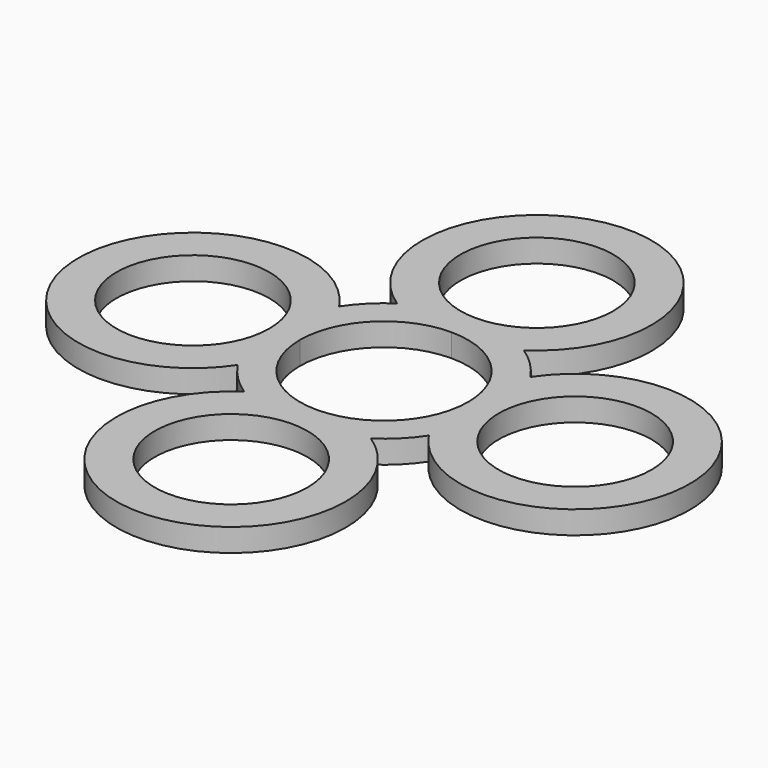
from build123d import *

# Parameters (mm, degrees)
F0_R     = 10
F1_DEPTH = 3


with BuildPart() as f1:
    # F0 (on Top) → F1 (new body)
    with BuildSketch(Plane.XY):
        with BuildLine():
            ThreePointArc((0, -11), (7.778175, -7.778175), (11, 0))
            ThreePointArc((11, 0), (7.778175, 7.778175), (0, 11))
            ThreePointArc((0, 11), (-7.778175, 7.778175), (-11, 0))
            ThreePointArc((-11, 0), (-7.778175, -7.778175), (0, -11))
        make_face()
        with BuildLine():
            ThreePointArc((10, 25), (-7.071068, 32.071068), (0, 15))
            ThreePointArc((0, 15), (7.071068, 17.928932), (10, 25))
        make_face()
        with BuildLine():
            ThreePointArc((8.291562, 12.5), (0, 40), (-8.291562, 12.5))
            ThreePointArc((-8.291562, 12.5), (-10.606602, 10.606602), (-12.5, 8.291562))
            ThreePointArc((-12.5, 8.291562), (-40, 0), (-12.5, -8.291562))
            ThreePointArc((-12.5, -8.291562), (-10.606602, -10.606602), (-8.291562, -12.5))
            ThreePointArc((-8.291562, -12.5), (0, -40), (8.291562, -12.5))
            ThreePointArc((8.291562, -12.5), (10.606602, -10.606602), (12.5, -8.291562))
            ThreePointArc((12.5, -8.291562), (40, 0), (12.5, 8.291562))
            ThreePointArc((12.5, 8.291562), (10.606602, 10.606602), (8.291562, 12.5))
        make_face()
        with Locations((0, -25)):
            Circle(F0_R, mode=Mode.SUBTRACT)
        with Locations((-25, 0)):
            Circle(F0_R, mode=Mode.SUBTRACT)
        with BuildLine():
            ThreePointArc((0, 11), (7.778175, 7.778175), (11, 0))
            ThreePointArc((11, 0), (7.778175, -7.778175), (0, -11))
            ThreePointArc((0, -11), (-7.778175, -7.778175), (-11, 0))
            ThreePointArc((-11, 0), (-7.778175, 7.778175), (0, 11))
        make_face(mode=Mode.SUBTRACT)
        with Locations((25, 0)):
            Circle(F0_R, mode=Mode.SUBTRACT)
        with BuildLine():
            ThreePointArc((10, 25), (7.071068, 17.928932), (0, 15))
            ThreePointArc((0, 15), (-7.071068, 32.071068), (10, 25))
        make_face(mode=Mode.SUBTRACT)
    extrude(amount=F1_DEPTH)


solid = f1.part
